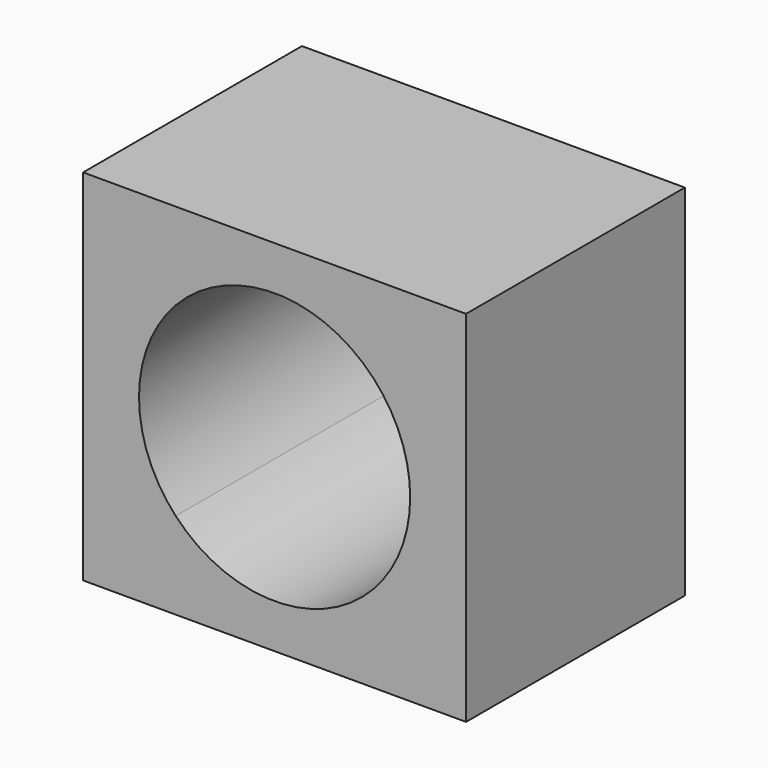
from build123d import *

# Parameters (mm, degrees)
F1_DEPTH = 25.4


with BuildPart() as f1:
    # F0 (on Front) → F1 (new body)
    with BuildSketch(Plane.XZ):
        with BuildLine():
            Line((-8.599291, 8.066694), (0, 0))
            Line((0, 0), (0, 33.362361))
            Line((0, 33.362361), (-8.599291, 25.295668))
            ThreePointArc((-8.599291, 25.295668), (-6.074195, 21.313253), (-5.191216, 16.681181))
            ThreePointArc((-5.191216, 16.681181), (-6.074195, 12.049109), (-8.599291, 8.066694))
        make_face()
        with BuildLine():
            Line((-35.565086, 0), (0, 0))
            Line((0, 0), (-8.599291, 8.066694))
            ThreePointArc((-8.599291, 8.066694), (-17.782543, 4.089854), (-26.965795, 8.066694))
            Line((-26.965795, 8.066694), (-35.565086, 0))
        make_face()
        with BuildLine():
            Line((-35.565086, 33.362361), (-35.565086, 0))
            Line((-35.565086, 0), (-26.965795, 8.066694))
            ThreePointArc((-26.965795, 8.066694), (-30.373869, 16.681181), (-26.965795, 25.295668))
            Line((-26.965795, 25.295668), (-35.565086, 33.362361))
        make_face()
        with BuildLine():
            Line((-8.599291, 25.295668), (0, 33.362361))
            Line((0, 33.362361), (-35.565086, 33.362361))
            Line((-35.565086, 33.362361), (-26.965795, 25.295668))
            ThreePointArc((-26.965795, 25.295668), (-17.782543, 29.272507), (-8.599291, 25.295668))
        make_face()
    extrude(amount=F1_DEPTH)


solid = f1.part
